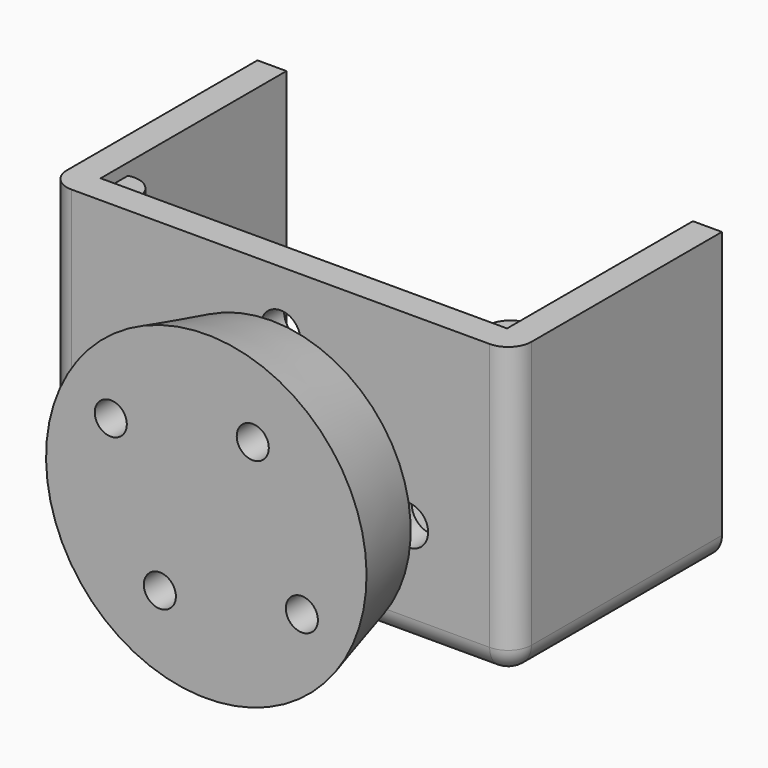
from build123d import *

# Parameters (mm, degrees)
SKETCH_W                = 40
SKETCH_H                = 25
SKETCH_R                = 6.1
SKETCH_R_2              = 1.7
PAD_DEPTH               = 2.5
PAD_DEPTH_BACK          = 20
SKETCH001_W             = 35
SKETCH001_H             = 23.5
POCKET_DEPTH            = 20.001
FILLET_R                = 2
SKETCH002_R             = 2
PAD001_DEPTH            = 15
PAD001_DEPTH_BACK       = 8
SKETCH003_R             = 2.6
PAD002_DEPTH            = 5
SKETCH005_R             = 13.8
SKETCH004_R             = 12
SKETCH006_R             = 1.5
PAD003_DEPTH            = 4
PAD003_DEPTH_BACK       = 9
SKETCH007_R             = 1.380574
POCKET001_DEPTH         = 10
BODY001_PLACEMENT_ANGLE = 30


with BuildPart() as gearbox_motormount:
    # Sketch → Pad (new body, two sides)
    with BuildSketch(Plane.XZ) as pad_sk:
        with Locations((0, 3.5)):
            Rectangle(SKETCH_W, SKETCH_H)
        Circle(SKETCH_R, mode=Mode.SUBTRACT)
        with Locations((11, 0)):
            Circle(SKETCH_R_2, mode=Mode.SUBTRACT)
        with Locations((-11, 0)):
            Circle(SKETCH_R_2, mode=Mode.SUBTRACT)
        with Locations((0, 11)):
            Circle(SKETCH_R_2, mode=Mode.SUBTRACT)
    extrude(amount=PAD_DEPTH)
    extrude(pad_sk.sketch, amount=-PAD_DEPTH_BACK)

    # Sketch001 → Pocket (cut, through all)
    with BuildSketch(Plane.XZ):
        with Locations((0, 4.25)):
            Rectangle(SKETCH001_W, SKETCH001_H)
    extrude(amount=-POCKET_DEPTH, mode=Mode.SUBTRACT)

    # Fillet
    fillet_edges = [gearbox_motormount.edges().sort_by_distance(p)[0] for p in [
        (-20, -2.5, 3.5),
        (-20, 8.75, -9),
        (0, -2.5, -9),
        (20, -2.5, 3.5),
        (20, 8.75, -9),
    ]]
    fillet(fillet_edges, radius=FILLET_R)

    # Sketch002 → Pad001 (join, two sides)
    with BuildSketch(Plane.XY) as pad001_sk:
        with Locations((-17, 1)):
            Circle(SKETCH002_R)
        with Locations((17, 1)):
            Circle(SKETCH002_R)
    extrude(amount=PAD001_DEPTH)
    extrude(pad001_sk.sketch, amount=-PAD001_DEPTH_BACK)

    # Sketch003 → Pad002 (join)
    with BuildSketch(Plane.XY.offset(-7.5)):
        with Locations((-14, 9)):
            Circle(SKETCH003_R)
        with Locations((14, 9)):
            Circle(SKETCH003_R)
    extrude(amount=PAD002_DEPTH)


with BuildPart() as motor_base:
    # Sketch005 → AdditiveLoft section 0
    with BuildSketch(Plane.XZ.offset(10)):
        Circle(SKETCH005_R)
    # Sketch004 → AdditiveLoft section 1
    with BuildSketch(Plane.XZ.offset(3)):
        Circle(SKETCH004_R)
    loft()

    # Sketch006 → Pad003 (new body, two sides)
    with BuildSketch(Plane.XZ.offset(1)) as pad003_sk:
        Circle(SKETCH006_R)
    extrude(amount=PAD003_DEPTH)
    extrude(pad003_sk.sketch, amount=-PAD003_DEPTH_BACK)

    # Sketch007 → Pocket001 (cut)
    with BuildSketch(Plane.XZ):
        with Locations((-9.5, 0)):
            Circle(SKETCH007_R)
        with Locations((9.5, 0)):
            Circle(SKETCH007_R)
        with Locations((0, 8)):
            Circle(SKETCH007_R)
        with Locations((0, -8)):
            Circle(SKETCH007_R)
    extrude(amount=POCKET001_DEPTH, mode=Mode.SUBTRACT)


with BuildPart() as motor_base_1:
    # Body001 placement: moved
    add(motor_base.part.moved(Location((-0.4, 0, 0))).rotate(Axis((-0.4, 0, 0), (0, 1, 0)), BODY001_PLACEMENT_ANGLE))


solid = Compound([gearbox_motormount.part, motor_base_1.part])
